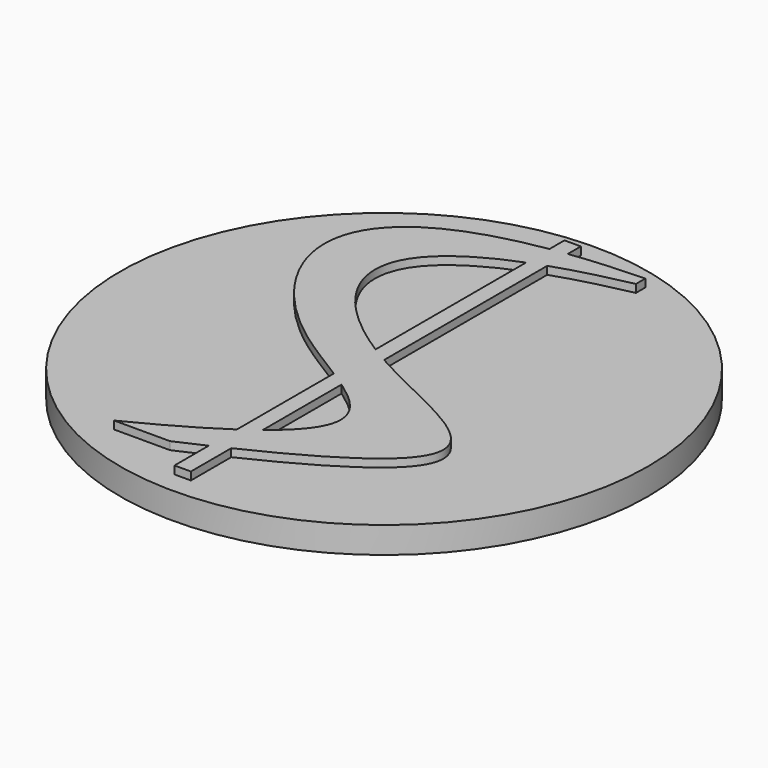
from build123d import *

# Parameters (mm, degrees)
F0_R     = 12.5
F1_DEPTH = 0.625
F2_DEPTH = 1


with BuildPart() as f1:
    # F0 (on Top) → F1 (new body, symmetric)
    with BuildSketch(Plane.XY):
        Circle(F0_R)
        with BuildLine():
            Line((3.469013609, 11.1325038597), (3.469013609, 10.5737236289))
            add(Edge.make_bspline(
                [(3.469013609, 10.5737236289), (2.1295310147, 10.2970913139), (0.9793041014, 9.9888926875), (0, 9.655447705)],
                knots=[0, 0, 0, 0, 0.0564438089, 0.0564438089, 0.0564438089, 0.0564438089], degree=3))
            Line((0, 9.655447705), (0, 0))
            add(Edge.make_bspline(
                [(0, 0), (4.7897576398, -2.7124564463), (11.1595160542, -3.7053488117), (0, -9.0481404075)],
                knots=[0.5103349284, 0.5103349284, 0.5103349284, 0.5103349284, 0.9731575335, 0.9731575335, 0.9731575335, 0.9731575335], degree=3))
            Line((0, -9.0481404075), (0, -11.43758744))
            Line((0, -11.43758744), (-0.7749350043, -11.43758744))
            Line((-0.7749350043, -11.43758744), (-0.7749350043, -9.4130570546))
            add(Edge.make_bspline(
                [(-0.7749350043, -9.4130570546), (-1.2009520677, -9.6105223834), (-1.6497795787, -9.8136858366), (-2.1222827306, -10.022822216)],
                knots=[0.9835042945, 0.9835042945, 0.9835042945, 0.9835042945, 1, 1, 1, 1], degree=3))
            Line((-2.1222827306, -10.022822216), (-4.7616744414, -10.022822216))
            add(Edge.make_bspline(
                [(-0.7749350043, -7.7441201795), (-1.7569134715, -8.4127257105), (-3.0643409272, -9.1644007059), (-4.7616744414, -10.022822216)],
                knots=[0.9307090471, 0.9307090471, 0.9307090471, 0.9307090471, 1, 1, 1, 1], degree=3))
            Line((-0.7749350043, -7.7441201795), (-0.7749350043, -2.0086095272))
            add(Edge.make_bspline(
                [(-0.7749350043, 10.7614904305), (-10.4506616594, 9.2054766823), (-7.6065922045, 2.0517963529), (-1.7244596317, -1.4061301092), (-0.7749350043, -2.0086095272)],
                knots=[0.0597793128, 0.0597793128, 0.0597793128, 0.0597793128, 0.5346738425, 0.6424901257, 0.6424901257, 0.6424901257, 0.6424901257], degree=3))
            Line((-0.7749350043, 10.7614904305), (-0.7749350043, 11.6469217464))
            Line((-0.7749350043, 11.6469217464), (0, 11.6469217464))
            Line((0, 11.6469217464), (0, 10.8735224005))
            add(Edge.make_bspline(
                [(3.469013609, 11.1325038597), (2.1834638751, 11.0951609113), (1.0304529742, 11.006589692), (0, 10.8735224005)],
                knots=[0, 0, 0, 0, 0.0474976509, 0.0474976509, 0.0474976509, 0.0474976509], degree=3))
        make_face(mode=Mode.SUBTRACT)
    extrude(amount=F1_DEPTH, both=True)


with BuildPart() as f1b:
    # F0 (on Top) → F1, piece 2 (new body, symmetric)
    with BuildSketch(Plane.XY):
        with BuildLine():
            Line((-0.7749350043, 0.4629873961), (-0.7749350043, 9.3726434612))
            add(Edge.make_bspline(
                [(-0.7749350043, 9.3726434612), (-7.2543752333, 6.8353887137), (-4.8643202342, 3.0415711892), (-0.7749350043, 0.4629873961)],
                knots=[0.0720806097, 0.0720806097, 0.0720806097, 0.0720806097, 0.4848579816, 0.4848579816, 0.4848579816, 0.4848579816], degree=3))
        make_face()
    extrude(amount=F1_DEPTH, both=True)


with BuildPart() as f1c:
    # F0 (on Top) → F1, piece 3 (new body, symmetric)
    with BuildSketch(Plane.XY):
        with BuildLine():
            add(Edge.make_bspline(
                [(0, -2.5184561726), (1.8710484062, -3.8133227091), (2.7335754881, -5.0509767976), (0, -7.1819160441)],
                knots=[0.6733250753, 0.6733250753, 0.6733250753, 0.6733250753, 0.9105813345, 0.9105813345, 0.9105813345, 0.9105813345], degree=3))
            Line((0, -2.5184561726), (0, -7.1819160441))
        make_face()
    extrude(amount=F1_DEPTH, both=True)


with BuildPart() as f2:
    # F0 (on Top) → F2 (new body, symmetric)
    with BuildSketch(Plane.XY):
        with BuildLine():
            add(Edge.make_bspline(
                [(-0.7749350043, 9.3726434612), (-7.2543752333, 6.8353887137), (-4.8643202342, 3.0415711892), (-0.7749350043, 0.4629873961)],
                knots=[0.0720806097, 0.0720806097, 0.0720806097, 0.0720806097, 0.4848579816, 0.4848579816, 0.4848579816, 0.4848579816], degree=3))
            Line((-0.7749350043, 9.3726434612), (-0.7749350043, 10.7614904305))
            add(Edge.make_bspline(
                [(-0.7749350043, 10.7614904305), (-10.4506616594, 9.2054766823), (-7.6065922045, 2.0517963529), (-1.7244596317, -1.4061301092), (-0.7749350043, -2.0086095272)],
                knots=[0.0597793128, 0.0597793128, 0.0597793128, 0.0597793128, 0.5346738425, 0.6424901257, 0.6424901257, 0.6424901257, 0.6424901257], degree=3))
            Line((-0.7749350043, -2.0086095272), (-0.7749350043, 0.4629873961))
        make_face()
        with BuildLine():
            Line((0, -2.5184561726), (0, 0))
            add(Edge.make_bspline(
                [(-0.7749350043, 0.4629873961), (-0.5225349044, 0.3038351591), (-0.2636612802, 0.149312302), (0, 0)],
                knots=[0.4848579816, 0.4848579816, 0.4848579816, 0.4848579816, 0.5103349284, 0.5103349284, 0.5103349284, 0.5103349284], degree=3))
            Line((-0.7749350043, 0.4629873961), (-0.7749350043, -2.0086095272))
            add(Edge.make_bspline(
                [(-0.7749350043, -2.0086095272), (-0.5033754302, -2.1809158049), (-0.2431703313, -2.3501691717), (0, -2.5184561726)],
                knots=[0.6424901257, 0.6424901257, 0.6424901257, 0.6424901257, 0.6733250753, 0.6733250753, 0.6733250753, 0.6733250753], degree=3))
        make_face()
        with BuildLine():
            add(Edge.make_bspline(
                [(0, 10.8735224005), (-0.2664484418, 10.8391146465), (-0.5247025919, 10.8017318602), (-0.7749350043, 10.7614904305)],
                knots=[0.0474976509, 0.0474976509, 0.0474976509, 0.0474976509, 0.0597793128, 0.0597793128, 0.0597793128, 0.0597793128], degree=3))
            Line((0, 10.8735224005), (0, 11.6469217464))
            Line((0, 11.6469217464), (-0.7749350043, 11.6469217464))
            Line((-0.7749350043, 11.6469217464), (-0.7749350043, 10.7614904305))
        make_face()
        with BuildLine():
            add(Edge.make_bspline(
                [(0, 9.655447705), (-0.2712996063, 9.5630724231), (-0.529481346, 9.4687595512), (-0.7749350043, 9.3726434612)],
                knots=[0.0564438089, 0.0564438089, 0.0564438089, 0.0564438089, 0.0720806097, 0.0720806097, 0.0720806097, 0.0720806097], degree=3))
            Line((0, 9.655447705), (0, 10.8735224005))
            add(Edge.make_bspline(
                [(0, 10.8735224005), (-0.2664484418, 10.8391146465), (-0.5247025919, 10.8017318602), (-0.7749350043, 10.7614904305)],
                knots=[0.0474976509, 0.0474976509, 0.0474976509, 0.0474976509, 0.0597793128, 0.0597793128, 0.0597793128, 0.0597793128], degree=3))
            Line((-0.7749350043, 10.7614904305), (-0.7749350043, 9.3726434612))
        make_face()
        with BuildLine():
            add(Edge.make_bspline(
                [(3.469013609, 10.5737236289), (2.1295310147, 10.2970913139), (0.9793041014, 9.9888926875), (0, 9.655447705)],
                knots=[0, 0, 0, 0, 0.0564438089, 0.0564438089, 0.0564438089, 0.0564438089], degree=3))
            Line((3.469013609, 10.5737236289), (3.469013609, 11.1325038597))
            add(Edge.make_bspline(
                [(3.469013609, 11.1325038597), (2.1834638751, 11.0951609113), (1.0304529742, 11.006589692), (0, 10.8735224005)],
                knots=[0, 0, 0, 0, 0.0474976509, 0.0474976509, 0.0474976509, 0.0474976509], degree=3))
            Line((0, 10.8735224005), (0, 9.655447705))
        make_face()
        with BuildLine():
            Line((0, 0), (0, 9.655447705))
            add(Edge.make_bspline(
                [(0, 9.655447705), (-0.2712996063, 9.5630724231), (-0.529481346, 9.4687595512), (-0.7749350043, 9.3726434612)],
                knots=[0.0564438089, 0.0564438089, 0.0564438089, 0.0564438089, 0.0720806097, 0.0720806097, 0.0720806097, 0.0720806097], degree=3))
            Line((-0.7749350043, 9.3726434612), (-0.7749350043, 0.4629873961))
            add(Edge.make_bspline(
                [(-0.7749350043, 0.4629873961), (-0.5225349044, 0.3038351591), (-0.2636612802, 0.149312302), (0, 0)],
                knots=[0.4848579816, 0.4848579816, 0.4848579816, 0.4848579816, 0.5103349284, 0.5103349284, 0.5103349284, 0.5103349284], degree=3))
        make_face()
        with BuildLine():
            Line((0, -7.1819160441), (0, -2.5184561726))
            add(Edge.make_bspline(
                [(-0.7749350043, -2.0086095272), (-0.5033754302, -2.1809158049), (-0.2431703313, -2.3501691717), (0, -2.5184561726)],
                knots=[0.6424901257, 0.6424901257, 0.6424901257, 0.6424901257, 0.6733250753, 0.6733250753, 0.6733250753, 0.6733250753], degree=3))
            Line((-0.7749350043, -2.0086095272), (-0.7749350043, -7.7441201795))
            add(Edge.make_bspline(
                [(0, -7.1819160441), (-0.2319037729, -7.3626949738), (-0.4896888142, -7.5499029062), (-0.7749350043, -7.7441201795)],
                knots=[0.9105813345, 0.9105813345, 0.9105813345, 0.9105813345, 0.9307090471, 0.9307090471, 0.9307090471, 0.9307090471], degree=3))
        make_face()
        with BuildLine():
            Line((0, -11.43758744), (0, -9.0481404075))
            add(Edge.make_bspline(
                [(0, -9.0481404075), (-0.2494797012, -9.1675826884), (-0.5077202, -9.289198966), (-0.7749350043, -9.4130570546)],
                knots=[0.9731575335, 0.9731575335, 0.9731575335, 0.9731575335, 0.9835042945, 0.9835042945, 0.9835042945, 0.9835042945], degree=3))
            Line((-0.7749350043, -9.4130570546), (-0.7749350043, -11.43758744))
            Line((-0.7749350043, -11.43758744), (0, -11.43758744))
        make_face()
        with BuildLine():
            add(Edge.make_bspline(
                [(-0.7749350043, -9.4130570546), (-1.2009520677, -9.6105223834), (-1.6497795787, -9.8136858366), (-2.1222827306, -10.022822216)],
                knots=[0.9835042945, 0.9835042945, 0.9835042945, 0.9835042945, 1, 1, 1, 1], degree=3))
            Line((-0.7749350043, -9.4130570546), (-0.7749350043, -7.7441201795))
            add(Edge.make_bspline(
                [(-0.7749350043, -7.7441201795), (-1.7569134715, -8.4127257105), (-3.0643409272, -9.1644007059), (-4.7616744414, -10.022822216)],
                knots=[0.9307090471, 0.9307090471, 0.9307090471, 0.9307090471, 1, 1, 1, 1], degree=3))
            Line((-4.7616744414, -10.022822216), (-2.1222827306, -10.022822216))
        make_face()
        with BuildLine():
            add(Edge.make_bspline(
                [(0, -9.0481404075), (-0.2494797012, -9.1675826884), (-0.5077202, -9.289198966), (-0.7749350043, -9.4130570546)],
                knots=[0.9731575335, 0.9731575335, 0.9731575335, 0.9731575335, 0.9835042945, 0.9835042945, 0.9835042945, 0.9835042945], degree=3))
            Line((0, -9.0481404075), (0, -7.1819160441))
            add(Edge.make_bspline(
                [(0, -7.1819160441), (-0.2319037729, -7.3626949738), (-0.4896888142, -7.5499029062), (-0.7749350043, -7.7441201795)],
                knots=[0.9105813345, 0.9105813345, 0.9105813345, 0.9105813345, 0.9307090471, 0.9307090471, 0.9307090471, 0.9307090471], degree=3))
            Line((-0.7749350043, -7.7441201795), (-0.7749350043, -9.4130570546))
        make_face()
        with BuildLine():
            add(Edge.make_bspline(
                [(0, 0), (4.7897576398, -2.7124564463), (11.1595160542, -3.7053488117), (0, -9.0481404075)],
                knots=[0.5103349284, 0.5103349284, 0.5103349284, 0.5103349284, 0.9731575335, 0.9731575335, 0.9731575335, 0.9731575335], degree=3))
            Line((0, 0), (0, -2.5184561726))
            add(Edge.make_bspline(
                [(0, -2.5184561726), (1.8710484062, -3.8133227091), (2.7335754881, -5.0509767976), (0, -7.1819160441)],
                knots=[0.6733250753, 0.6733250753, 0.6733250753, 0.6733250753, 0.9105813345, 0.9105813345, 0.9105813345, 0.9105813345], degree=3))
            Line((0, -7.1819160441), (0, -9.0481404075))
        make_face()
    extrude(amount=F2_DEPTH, both=True)


solid = Compound([f1.part, f1b.part, f1c.part, f2.part])
